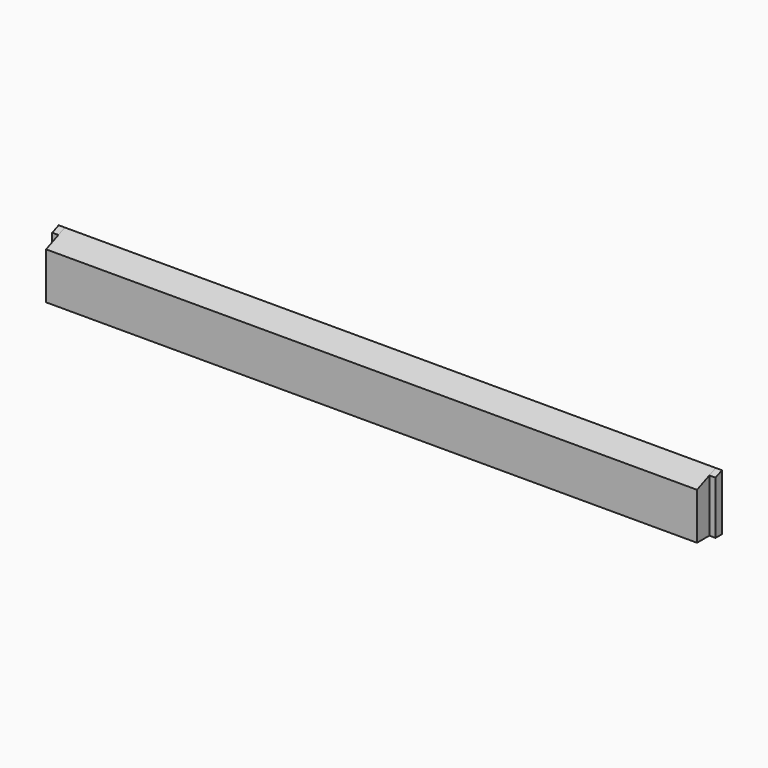
from build123d import *

# Parameters (mm, degrees)
F1_DEPTH = 1056
F3_DEPTH = 10
F5_DEPTH = 10


with BuildPart() as f1:
    # F0 (on Right) → F1 (new body)
    with BuildSketch(Plane.YZ):
        Polygon((0, 75.7), (0, 0), (38, 0), (38, 91.440115), align=None)
    extrude(amount=-F1_DEPTH)

    # F2 (on face) → F3 (join)
    with BuildSketch(Plane.YZ):
        Polygon((25, 86.055339), (25, 0), (38, 0), (38, 91.440115), align=None)
    extrude(amount=F3_DEPTH)

    # F4 (on face) → F5 (join)
    with BuildSketch(Plane(origin=(-1056, 0, 0), x_dir=(0, -1, 0), z_dir=(-1, 0, 0))):
        Polygon((-38, 0), (-25, 0), (-25, 86.055339), (-38, 91.440115), align=None)
    extrude(amount=F5_DEPTH)


solid = f1.part
